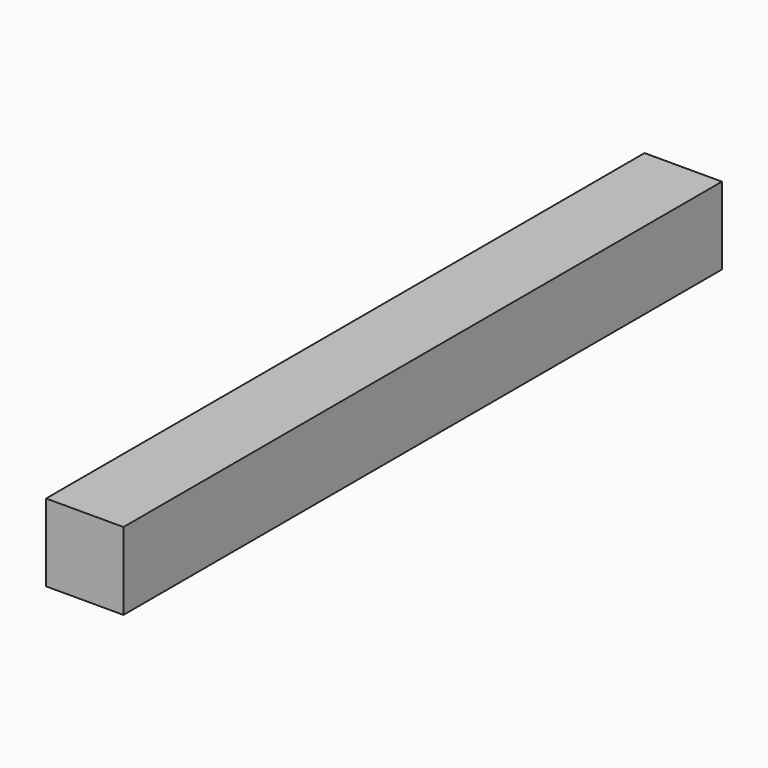
from build123d import *

# Parameters (mm, degrees)
F1_DEPTH      = 138
F2_W          = 15
F2_H          = 15
F3_DEPTH      = 7
F3_DEPTH_BACK = 4
F4_W          = 4
F4_H          = 5
F5_DEPTH      = 4


with BuildPart() as f1:
    # F0 (on Front) → F1 (new body)
    with BuildSketch(Plane.XZ):
        Polygon((0, 6.45), (0, 0), (6.45, 0), (6.45, 4), (11.55, 4), (11.55, 0), (15, 0), (15, 15), (0, 15), (0, 11.55), (4, 11.55), (4, 6.45), align=None)
    extrude(amount=F1_DEPTH)

    # F2 (on face) → F3 (join, two sides)
    with BuildSketch(Plane.XZ.offset(138)) as f3_sk:
        with Locations((7.5, 7.5)):
            Rectangle(F2_W, F2_H)
    extrude(amount=F3_DEPTH)
    extrude(f3_sk.sketch, amount=-F3_DEPTH_BACK)

    # F4 (on face) → F5 (cut)
    with BuildSketch(Plane(origin=(0, 0, 0), x_dir=(1, 0, 0), z_dir=(0, 0, -1))):
        with Locations((2, 139)):
            Rectangle(F4_W, F4_H)
    extrude(amount=-F5_DEPTH, mode=Mode.SUBTRACT)


solid = f1.part
